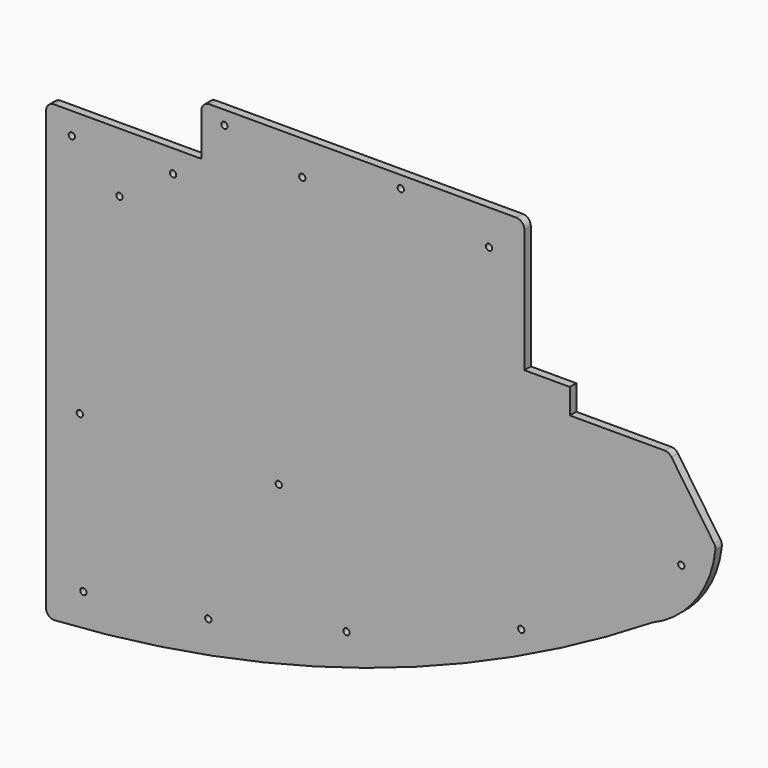
from build123d import *

# Parameters (mm, degrees)
F0_R     = 2.4765
F1_DEPTH = 6.35


with BuildPart() as f1:
    # F0 (on Front) → F1 (new body)
    with BuildSketch(Plane.XZ):
        with BuildLine():
            Line((-182.687491, 165.680151), (-182.687491, -178.108265))
            ThreePointArc((-182.687491, -178.108265), (-180.680274, -182.741055), (-175.927573, -184.44502))
            ThreePointArc((-175.927573, -184.44502), (68.064874, -138.02089), (293.317944, -33.385482))
            ThreePointArc((293.317944, -33.385482), (327.11409, -7.064195), (342.855905, 32.775295))
            ThreePointArc((342.855905, 32.775295), (342.704473, 35.012459), (341.784916, 37.057514))
            Line((341.784916, 37.057514), (308.354903, 85.916741))
            ThreePointArc((308.354903, 85.916741), (306.076721, 87.947579), (303.114203, 88.680997))
            Line((303.114203, 88.680997), (228.528813, 88.680997))
            Line((228.528813, 88.680997), (228.528813, 108.399421))
            Line((228.528813, 108.399421), (192.847848, 108.399421))
            Line((192.847848, 108.399421), (192.847848, 172.030151))
            Line((192.847848, 172.030151), (-60.674842, 172.030151))
            Line((-60.674842, 172.030151), (-176.337491, 172.030151))
            ThreePointArc((-176.337491, 172.030151), (-180.827619, 170.170279), (-182.687491, 165.680151))
        make_face()
        with Locations((-153.386965, -157.20512)):
            Circle(F0_R, mode=Mode.SUBTRACT)
        with Locations((-55.309255, -144.247517)):
            Circle(F0_R, mode=Mode.SUBTRACT)
        with Locations((53.187076, -117.768265)):
            Circle(F0_R, mode=Mode.SUBTRACT)
        with Locations((-156.203881, -35.138641)):
            Circle(F0_R, mode=Mode.SUBTRACT)
        with Locations((0, -33.260699)):
            Circle(F0_R, mode=Mode.SUBTRACT)
        with Locations((190.371348, -71.606256)):
            Circle(F0_R, mode=Mode.SUBTRACT)
        with Locations((-125.036161, 125.164057)):
            Circle(F0_R, mode=Mode.SUBTRACT)
        with Locations((-162.50541, 154.822963)):
            Circle(F0_R, mode=Mode.SUBTRACT)
        with Locations((-82.966307, 154.368845)):
            Circle(F0_R, mode=Mode.SUBTRACT)
        with Locations((316.099495, 13.687949)):
            Circle(F0_R, mode=Mode.SUBTRACT)
        with BuildLine():
            Line((-60.674842, 205.46418), (-60.674842, 172.030151))
            Line((-60.674842, 172.030151), (192.847848, 172.030151))
            Line((192.847848, 172.030151), (192.847848, 205.46418))
            ThreePointArc((192.847848, 205.46418), (190.987976, 209.954308), (186.497848, 211.81418))
            Line((186.497848, 211.81418), (-54.324842, 211.81418))
            ThreePointArc((-54.324842, 211.81418), (-58.814971, 209.954308), (-60.674842, 205.46418))
        make_face()
        with Locations((-42.673801, 201.054353)):
            Circle(F0_R, mode=Mode.SUBTRACT)
        with Locations((18.518413, 185.048574)):
            Circle(F0_R, mode=Mode.SUBTRACT)
        with Locations((95.800146, 202.318219)):
            Circle(F0_R, mode=Mode.SUBTRACT)
        with Locations((165.061638, 184.351559)):
            Circle(F0_R, mode=Mode.SUBTRACT)
    extrude(amount=F1_DEPTH)


solid = f1.part
